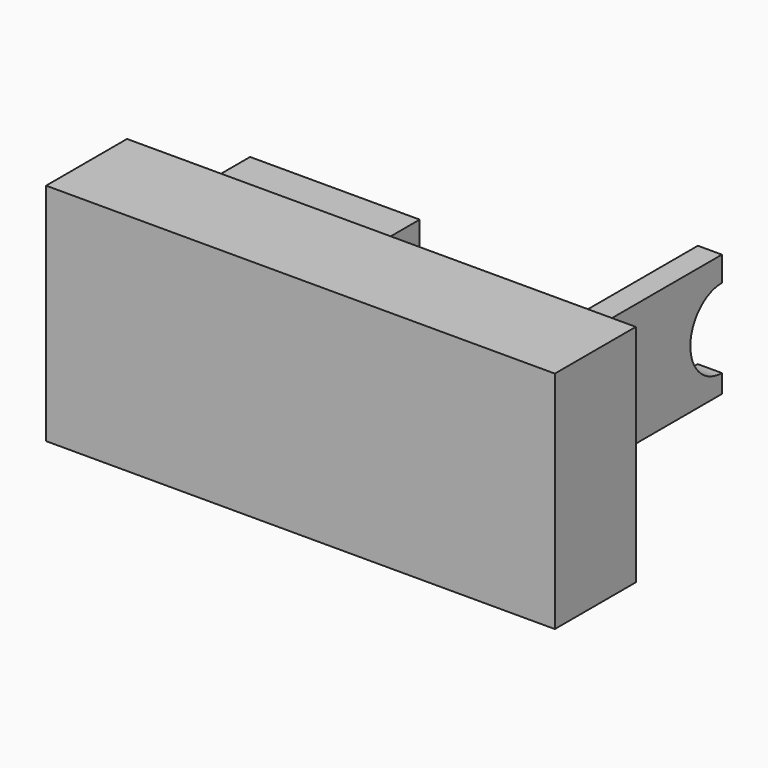
from build123d import *

# Parameters (mm, degrees)
F0_W          = 41.900944
F0_H          = 25.259434
F0_W_2        = 5.943396
F0_H_2        = 30.311321
F0_W_3        = 125.702835
F0_H_3        = 55.570757
F1_DEPTH      = 25
F2_DEPTH      = 25
F2_DEPTH_BACK = 25
F3_DEPTH      = 25
F3_DEPTH_BACK = 50
F5_DEPTH      = 106.982136


with BuildPart() as f1:
    # F0 (on Front) → F1 (new body)
    with BuildSketch(Plane.XZ):
        with Locations((-34.76887, 2.971698)):
            Rectangle(F0_W, F0_H)
        with Locations((37.889149, 0.445754)):
            Rectangle(F0_W_2, F0_H_2)
        with Locations((-3.268871, -1.485849)):
            Rectangle(F0_W_3, F0_H_3)
        with Locations((-34.76887, 2.971698)):
            Rectangle(F0_W, F0_H, mode=Mode.SUBTRACT)
        with Locations((37.889149, 0.445754)):
            Rectangle(F0_W_2, F0_H_2, mode=Mode.SUBTRACT)
    extrude(amount=F1_DEPTH)

    # F0 (on Front) → F2 (join, two sides)
    with BuildSketch(Plane.XZ) as f2_sk:
        with Locations((-34.76887, 2.971698)):
            Rectangle(F0_W, F0_H)
    extrude(amount=F2_DEPTH)
    extrude(f2_sk.sketch, amount=-F2_DEPTH_BACK)

    # F0 (on Front) → F3 (join, two sides)
    with BuildSketch(Plane.XZ) as f3_sk:
        with Locations((37.889149, 0.445754)):
            Rectangle(F0_W_2, F0_H_2)
    extrude(amount=F3_DEPTH)
    extrude(f3_sk.sketch, amount=-F3_DEPTH_BACK)

    # F4 (on face) → F5 (cut, through all)
    with BuildSketch(Plane.YZ.offset(40.860847)):
        with BuildLine():
            Line((50, -10.152427), (50, 9.467568))
            ThreePointArc((50, 9.467568), (40.252312, -0.34243), (50, -10.152427))
        make_face()
    extrude(amount=-F5_DEPTH, mode=Mode.SUBTRACT)


solid = f1.part
